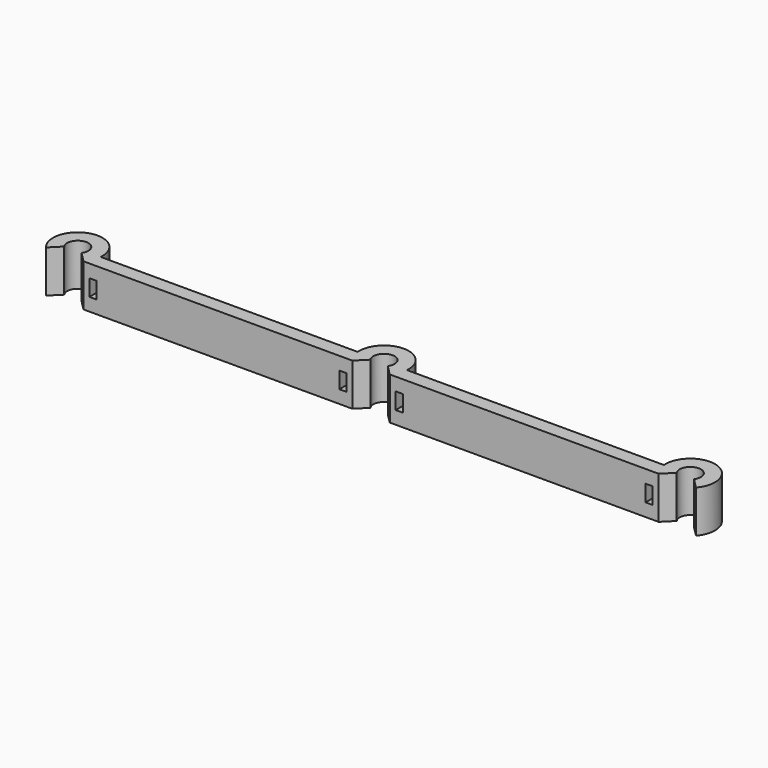
from build123d import *

# Parameters (mm, degrees)
F1_DEPTH = 9
F2_W     = 1.5
F2_H     = 3.5
F3_DEPTH = 3


with BuildPart() as f1:
    # F0 (on Top) → F1 (new body)
    with BuildSketch(Plane.XY):
        with BuildLine():
            ThreePointArc((5.231998, -0.43439), (4.839731, -2.034577), (3.970827, -3.43439))
            Line((3.970827, -3.43439), (61.029173, -3.43439))
            Line((61.029173, -3.43439), (63.163563, -1.3))
            ThreePointArc((63.163563, -1.3), (65, 2.25), (66.836437, -1.3))
            Line((66.836437, -1.3), (68.970827, -3.43439))
            Line((68.970827, -3.43439), (126.029173, -3.43439))
            Line((126.029173, -3.43439), (128.163563, -1.3))
            ThreePointArc((128.163563, -1.3), (130, 2.25), (131.836437, -1.3))
            Line((131.836437, -1.3), (133.970827, -3.43439))
            ThreePointArc((133.970827, -3.43439), (131.627157, 4.991479), (124.768002, -0.43439))
            Line((124.768002, -0.43439), (70.231998, -0.43439))
            ThreePointArc((70.231998, -0.43439), (65, 5.25), (59.768002, -0.43439))
            Line((59.768002, -0.43439), (5.231998, -0.43439))
        make_face()
        with BuildLine():
            ThreePointArc((-1.836437, -1.3), (0, 2.25), (1.836437, -1.3))
            Line((1.836437, -1.3), (3.970827, -3.43439))
            ThreePointArc((3.970827, -3.43439), (4.839731, -2.034577), (5.231998, -0.43439))
            ThreePointArc((5.231998, -0.43439), (5.245498, -0.217381), (5.25, 0))
            ThreePointArc((5.25, 0), (-1.832438, 4.919824), (-3.970827, -3.43439))
            Line((-3.970827, -3.43439), (-1.836437, -1.3))
        make_face()
    extrude(amount=F1_DEPTH)

    # F2 (on face) → F3 (cut, through all)
    with BuildSketch(Plane(origin=(0, -0.43439, 0), x_dir=(-1, 0, 0), z_dir=(0, 1, 0))):
        with Locations((-59.018002, 4.5)):
            Rectangle(F2_W, F2_H)
        with Locations((-70.981998, 4.5)):
            Rectangle(F2_W, F2_H)
        with Locations((-5.981998, 4.5)):
            Rectangle(F2_W, F2_H)
        with Locations((-124.018002, 4.5)):
            Rectangle(F2_W, F2_H)
    extrude(amount=-F3_DEPTH, mode=Mode.SUBTRACT)


solid = f1.part
